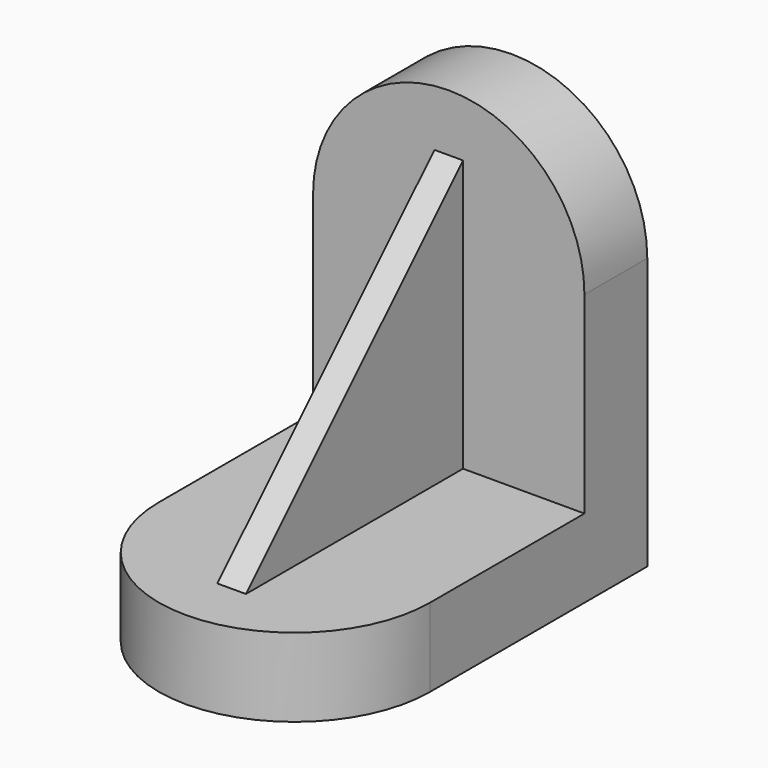
from build123d import *

# Parameters (mm, degrees)
F0_W     = 965.2
F0_H     = 965.2
F1_DEPTH = 482.6
F2_W     = 685.8
F2_H     = 685.8
F3_DEPTH = 965.201
F5_DEPTH = 279.4
F7_DEPTH = 279.4
F9_DEPTH = 50.8


with BuildPart() as f1:
    # F0 (on Top) → F1 (new body, symmetric)
    with BuildSketch(Plane.XY):
        Rectangle(F0_W, F0_H)
    extrude(amount=F1_DEPTH, both=True)

    # F2 (on face) → F3 (cut, through all)
    with BuildSketch(Plane(origin=(-482.6, 0, 0), x_dir=(0, -1, 0), z_dir=(-1, 0, 0))):
        with Locations((139.7, 139.7)):
            Rectangle(F2_W, F2_H)
    extrude(amount=-F3_DEPTH, mode=Mode.SUBTRACT)

    # F4 (on face) → F5 (join, through all)
    with BuildSketch(Plane.XZ.offset(-203.2)):
        with BuildLine():
            Line((-482.6, 482.6), (482.6, 482.6))
            ThreePointArc((482.6, 482.6), (0, 965.2), (-482.6, 482.6))
        make_face()
    extrude(amount=-F5_DEPTH)

    # F6 (on face) → F7 (join, through all)
    with BuildSketch(Plane.XY.offset(-203.2)):
        with BuildLine():
            Line((482.6, -482.6), (-482.6, -482.6))
            ThreePointArc((-482.6, -482.6), (0, -965.2), (482.6, -482.6))
        make_face()
    extrude(amount=-F7_DEPTH)

    # F8 (on Right) → F9 (join, symmetric)
    with BuildSketch(Plane.YZ):
        Polygon((-762, -203.2), (203.2, -203.2), (203.2, 762), align=None)
    extrude(amount=F9_DEPTH, both=True)


solid = f1.part
